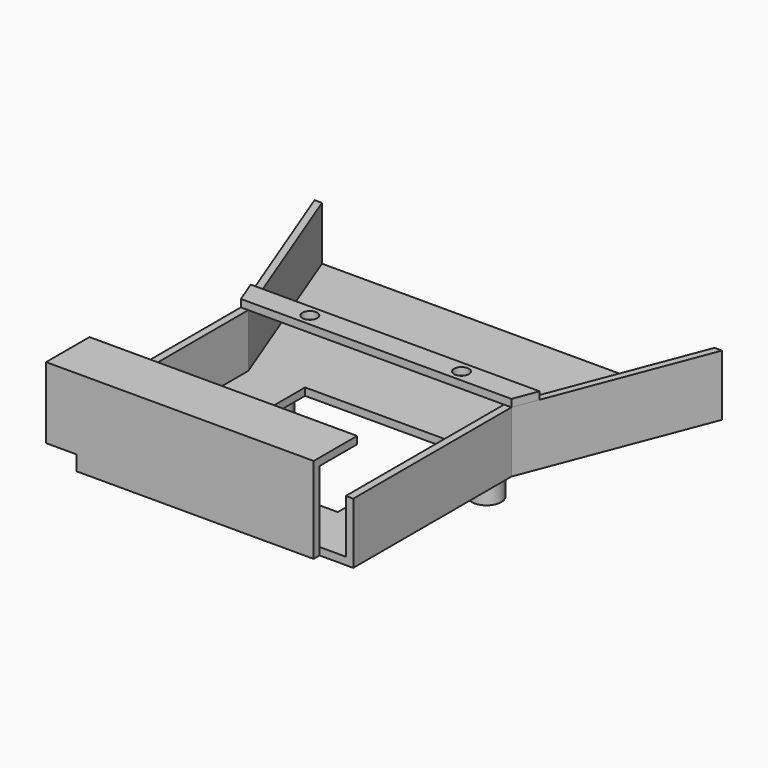
from build123d import *

# Parameters (mm, degrees)
F0_W      = 16.1925
F0_H      = 15.875
F1_DEPTH  = 0.3175
F3_DEPTH  = 5.715
F5_DEPTH  = 0.79375
F6_R      = 0.79375
F7_DEPTH  = 0.79375
F8_DEPTH  = 0.3175
F9_W      = 1.5875
F9_H      = 0.635
F10_DEPTH = 1.5875
F11_DEPTH = 0.3175
F12_W     = 1.5875
F12_H     = 1.5875
F13_DEPTH = 0.79375
F14_DEPTH = 0.15875
F15_R     = 0.5
F16_DEPTH = 25.4
F17_R     = 1.5875
F18_DEPTH = 3.175
F19_DEPTH = 1.5875
F20_DEPTH = 12.7
F21_R     = 0.5
F22_DEPTH = 25.30475
F23_W     = 1.5875
F23_H     = 1.5875
F24_DEPTH = 3.27025
F25_W     = 28.575
F25_H     = 0.79375
F26_DEPTH = 7.62
F27_DEPTH = 0.79375
F28_DEPTH = 0.79375
F29_DEPTH = 0.79375
F30_DEPTH = 25.4
F31_W     = 28.575
F31_H     = 0.79375
F32_DEPTH = 4.998339


with BuildPart() as f1:
    # F0 (on Top) → F1 (new body)
    with BuildSketch(Plane.XY):
        Polygon((-25.671613648, 46.3675076752), (-18.369113648, 27.4050211887), (-18.369113648, 7.0850211887), (10.523386352, 7.0850211887), (10.523386352, 27.4050211887), (17.825886352, 46.3675076752), align=None)
        with Locations((-3.922863648, 20.1025211887)):
            Rectangle(F0_W, F0_H, mode=Mode.SUBTRACT)
    extrude(amount=F1_DEPTH)

    # F2 (on face) → F3 (join)
    with BuildSketch(Plane.XY.offset(0.3175)):
        Polygon((17.825886352, 46.3675076752), (17.032136352, 46.3675076752), (9.729636352, 27.4050211887), (9.729636352, 7.0850211887), (10.523386352, 7.0850211887), (10.523386352, 27.4050211887), align=None)
        Polygon((-24.877863648, 46.3675076752), (-25.671613648, 46.3675076752), (-18.369113648, 27.4050211887), (-18.369113648, 7.0850211887), (-17.575363648, 7.0850211887), (-17.575363648, 27.4050211887), align=None)
    extrude(amount=F3_DEPTH)

    # F4 (on face) → F5 (join)
    with BuildSketch(Plane.XY.offset(6.0325)):
        Polygon((-19.3472738705, 29.9450211887), (-18.369113648, 27.4050211887), (10.523386352, 27.4050211887), (11.5015465745, 29.9450211887), align=None)
    extrude(amount=F5_DEPTH)

    # F6 (on face) → F7 (cut)
    with BuildSketch(Plane.XY.offset(6.82625)):
        with Locations((-12.019113648, 28.6750211887)):
            Circle(F6_R)
        with Locations((4.173386352, 28.6750211887)):
            Circle(F6_R)
    extrude(amount=-F7_DEPTH, mode=Mode.SUBTRACT)

    # F8 (add): a face of the model
    f8_faces = [f1.faces().sort_by_distance(p)[0] for p in [
        (-3.922863648, 30.216271867, 0),
    ]]
    extrude(f8_faces, amount=F8_DEPTH)

    # F9 (on face) → F10 (join)
    with BuildSketch(Plane.XZ.offset(-7.0850211887)):
        Polygon((-17.575363648, 0.3175), (-18.369113648, 0.3175), (-18.369113648, -0.3175), (-16.781613648, -0.3175), (-16.781613648, 0.3175), align=None)
        with Locations((-14.400363648, 0)):
            Rectangle(F9_W, F9_H)
        with Locations((1.379386352, 0)):
            Rectangle(F9_W, F9_H)
        with Locations((4.554386352, 0)):
            Rectangle(F9_W, F9_H)
    extrude(amount=F10_DEPTH)

    # F11 (add): a face of the model
    f11_faces = [f1.faces().sort_by_distance(p)[0] for p in [
        (-3.9482759262, 29.9813117116, -0.3175),
    ]]
    extrude(f11_faces, amount=F11_DEPTH)

    # F12 (on face) → F13 (join)
    with BuildSketch(Plane.XY.offset(0.3175)):
        with Locations((-17.575363648, 6.2912711887)):
            Rectangle(F12_W, F12_H)
        with Locations((-14.400363648, 6.2912711887)):
            Rectangle(F12_W, F12_H)
        with Locations((1.379386352, 6.2912711887)):
            Rectangle(F12_W, F12_H)
        with Locations((4.554386352, 6.2912711887)):
            Rectangle(F12_W, F12_H)
    extrude(amount=F13_DEPTH)

    # F14 (cut): a face of the model
    f14_faces = [f1.faces().sort_by_distance(p)[0] for p in [
        (-3.9482759262, 29.9813117116, -0.635),
    ]]
    extrude(f14_faces, amount=-F14_DEPTH, mode=Mode.SUBTRACT)

    # F15 (on face) → F16 (cut)
    with BuildSketch(Plane(origin=(-18.369113648, 0, 0), x_dir=(0, -1, 0), z_dir=(-1, 0, 0))):
        with Locations((-6.2912711887, 0.3175)):
            Circle(F15_R)
    extrude(amount=-F16_DEPTH, mode=Mode.SUBTRACT)

    # F17 (on face) → F18 (join)
    with BuildSketch(Plane(origin=(0, 0, -0.47625), x_dir=(1, 0, 0), z_dir=(0, 0, -1))):
        with Locations((-15.194113648, -28.0400211887)):
            Circle(F17_R)
        with Locations((7.348386352, -28.0400211887)):
            Circle(F17_R)
    extrude(amount=F18_DEPTH)

    # F19 (add): faces of the model
    f19_faces = [f1.faces().sort_by_distance(p)[0] for p in [
        (5.348136352, 7.0625705484, -0.079375),
        (2.173136352, 7.0625705484, -0.079375),
        (-16.781613648, 7.0625705484, -0.079375),
        (-13.606613648, 7.0625705484, -0.079375),
    ]]
    extrude(f19_faces, amount=F19_DEPTH)

    # F20 (add): a face of the model
    f20_faces = [f1.faces().sort_by_distance(p)[0] for p in [
        (-12.019113648, 6.2912711887, -0.4537993597),
    ]]
    extrude(f20_faces, amount=F20_DEPTH)

    # F21 (on face) → F22 (join)
    with BuildSketch(Plane.YZ.offset(6.935636352)):
        with Locations((6.2912711887, 0.3175)):
            Circle(F21_R)
    extrude(amount=-F22_DEPTH)

    # F23 (on face) → F24 (join)
    with BuildSketch(Plane(origin=(-18.369113648, 0, 0), x_dir=(0, -1, 0), z_dir=(-1, 0, 0))):
        with Locations((-6.2912711887, 0.3175)):
            Rectangle(F23_W, F23_H)
    extrude(amount=F24_DEPTH)

    # F25 (on face) → F26 (join)
    with BuildSketch(Plane.XY.offset(1.11125)):
        with Locations((-7.351863648, 5.8943961887)):
            Rectangle(F25_W, F25_H)
    extrude(amount=F26_DEPTH)

    # F27 (cut): a face of the model
    f27_faces = [f1.faces().sort_by_distance(p)[0] for p in [
        (-5.319863648, 7.0850211887, 0.714375),
    ]]
    extrude(f27_faces, amount=-F27_DEPTH, mode=Mode.SUBTRACT)

    # F28 (add): a face of the model
    f28_faces = [f1.faces().sort_by_distance(p)[0] for p in [
        (-17.972238648, 7.0850211887, 3.571875),
    ]]
    extrude(f28_faces, amount=F28_DEPTH)

    # F29 (add): a face of the model
    f29_faces = [f1.faces().sort_by_distance(p)[0] for p in [
        (8.729511352, 7.0850211887, -0.4019292246),
    ]]
    extrude(f29_faces, amount=F29_DEPTH)

    # F30 (cut): a face of the model
    f30_faces = [f1.faces().sort_by_distance(p)[0] for p in [
        (-20.004238648, 7.0850211887, 0.3175),
    ]]
    extrude(f30_faces, amount=-F30_DEPTH, mode=Mode.SUBTRACT)

    # F31 (on face) → F32 (join)
    with BuildSketch(Plane(origin=(0, 6.2912711887, 0), x_dir=(-1, 0, 0), z_dir=(0, 1, 0))):
        with Locations((7.351863648, 8.334375)):
            Rectangle(F31_W, F31_H)
    extrude(amount=F32_DEPTH)


solid = f1.part
